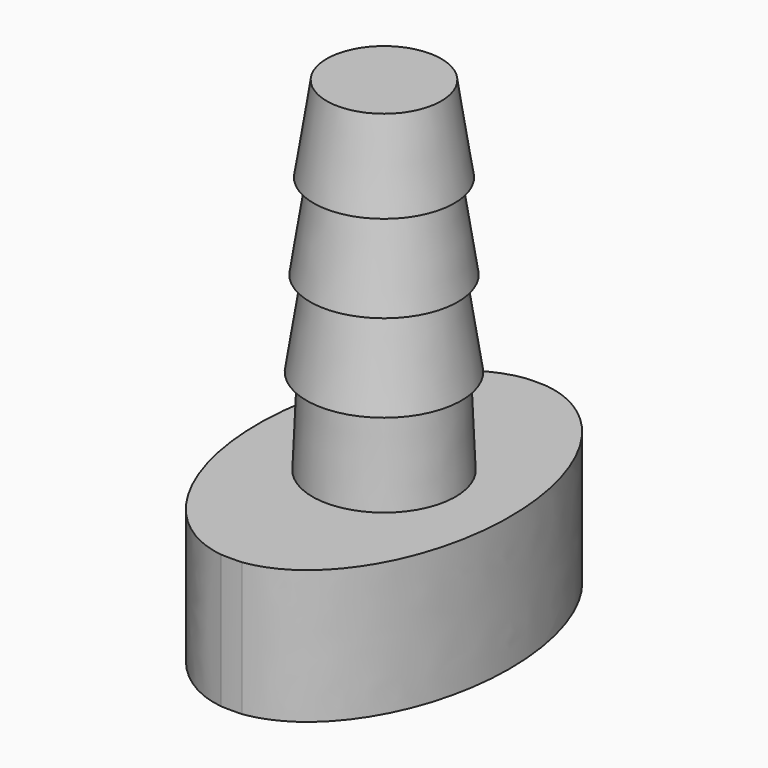
from build123d import *

# Parameters (mm, degrees)
F3_DEPTH = 25.001


with BuildPart() as f1:
    # F0 (on Right) → F1 (revolve)
    with BuildSketch(Plane.YZ):
        Polygon((3, 25), (0, 25), (0, 0), (10, 0), (10, 7), (3.75, 7), (3.560989338, 11.5362558876), (4.060989338, 11.5362558876), (3.373992892, 16.0241705917), (3.873992892, 16.0241705917), (3.186996446, 20.5120852959), (3.686996446, 20.5120852959), align=None)
    revolve(axis=Axis((0, 0, 31.1523070624), (0, 0, 1)))

    # F2 (on face) → F3 (intersect, through all)
    with BuildSketch(Plane(origin=(0, 0, 0), x_dir=(1, 0, 0), z_dir=(0, 0, -1))):
        with BuildLine():
            add(Edge.make_bspline(
                [(0.5574438539, -9.9844507285), (6.5930374607, -9.2060736587), (6.5930374607, 0), (6.5930374607, 9.2060736587), (0.5574438539, 9.9844507285)],
                knots=[0.0846514487, 0.0846514487, 0.0846514487, 1.5707963268, 1.5707963268, 3.0569412049, 3.0569412049, 3.0569412049], degree=2, weights=[1, 0.736393368, 1, 0.736393368, 1]))
            ThreePointArc((0.5574438539, 9.9844507285), (0, 10), (-0.5574438539, 9.9844507285))
            add(Edge.make_bspline(
                [(-0.5574438539, 9.9844507285), (-6.5930374607, 9.2060736587), (-6.5930374607, 0), (-6.5930374607, -9.2060736587), (-0.5574438539, -9.9844507285)],
                knots=[3.2262441023, 3.2262441023, 3.2262441023, 4.7123889804, 4.7123889804, 6.1985338585, 6.1985338585, 6.1985338585], degree=2, weights=[1, 0.736393368, 1, 0.736393368, 1]))
            ThreePointArc((-0.5574438539, -9.9844507285), (0, -10), (0.5574438539, -9.9844507285))
        make_face()
    extrude(amount=-F3_DEPTH, mode=Mode.INTERSECT)


solid = f1.part
